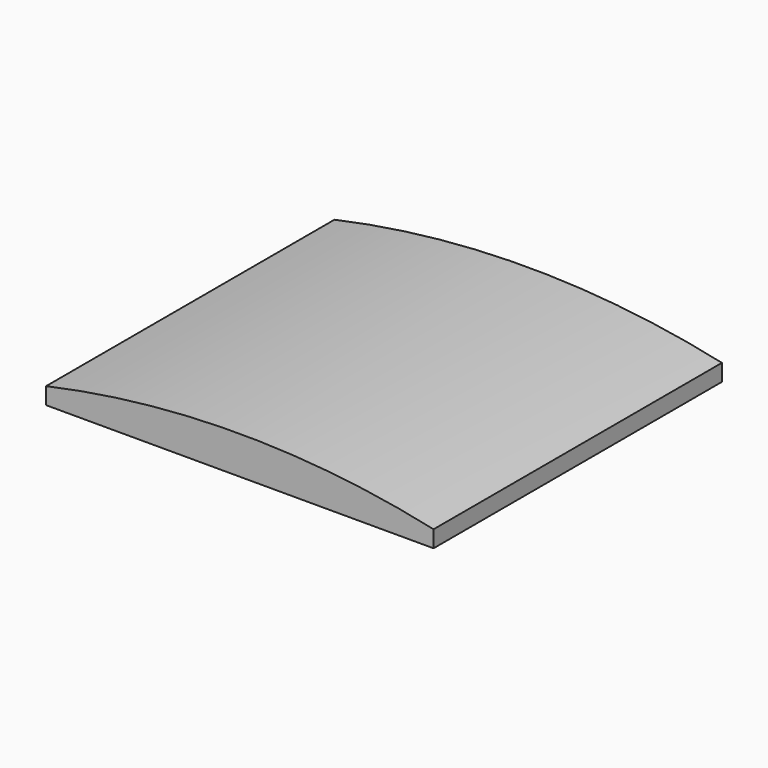
from build123d import *

# Parameters (mm, degrees)
PAD_DEPTH = 10


with BuildPart() as part:
    # Sketch → Pad (new body, symmetric)
    with BuildSketch(Plane.XZ):
        with BuildLine():
            Line((-10.75, 0), (10.75, 0))
            Line((10.75, 0), (10.75, 0.930702))
            ThreePointArc((10.75, 0.930702), (0, 2.1), (-10.75, 0.930702))
            Line((-10.75, 0), (-10.75, 0.930702))
        make_face()
    extrude(amount=PAD_DEPTH, both=True)


solid = part.part
